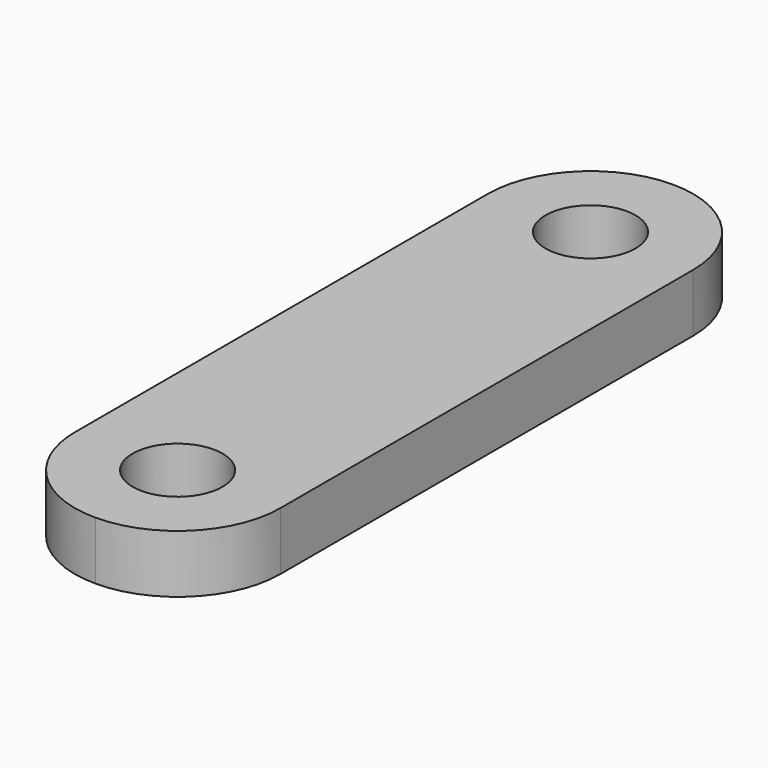
from build123d import *

# Parameters (mm, degrees)
F0_R     = 1.55
F1_DEPTH = 2


with BuildPart() as f1:
    # F0 (on Top) → F1 (new body)
    with BuildSketch(Plane.XY):
        with BuildLine():
            ThreePointArc((0, -12.43), (2.503158, -11.393158), (3.54, -8.89))
            Line((3.54, -8.89), (3.54, 8.89))
            ThreePointArc((3.54, 8.89), (2.503158, 11.393158), (0, 12.43))
            ThreePointArc((0, 12.43), (-2.503158, 11.393158), (-3.54, 8.89))
            Line((-3.54, 8.89), (-3.54, -8.89))
            ThreePointArc((-3.54, -8.89), (-3.466142, -9.609344), (-3.247652, -10.298672))
            ThreePointArc((-3.247652, -10.298672), (-1.94228, -11.849586), (0, -12.43))
        make_face()
        with Locations((0, -8.89)):
            Circle(F0_R, mode=Mode.SUBTRACT)
        with Locations((0, 8.89)):
            Circle(F0_R, mode=Mode.SUBTRACT)
    extrude(amount=F1_DEPTH)


solid = f1.part
